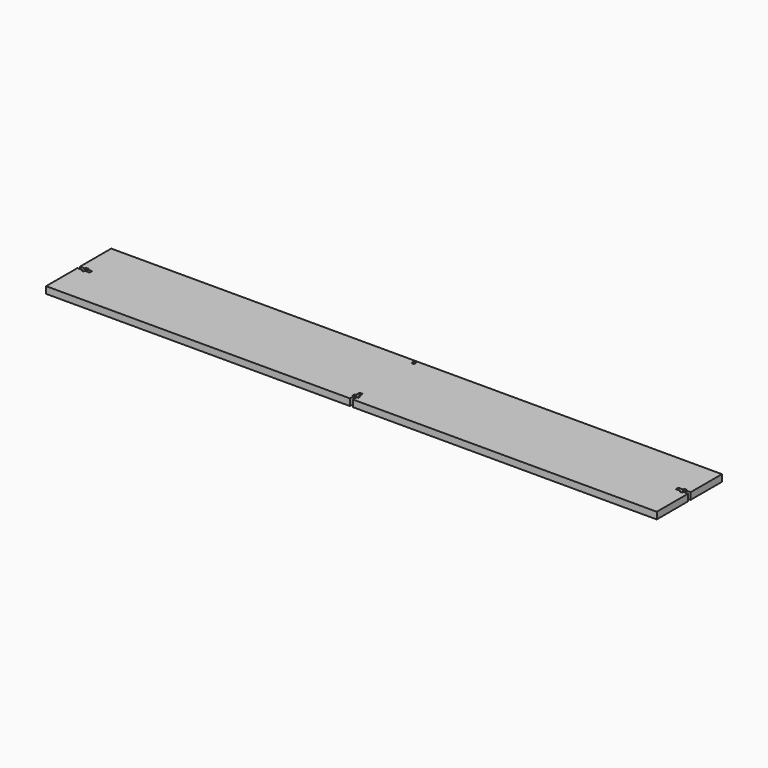
from build123d import *

# Parameters (mm, degrees)
F0_R     = 1.4605
F1_DEPTH = 6.35


with BuildPart() as f1:
    # F0 (on Top) → F1 (new body)
    with BuildSketch(Plane.XY):
        Polygon((1.4605, -38.1), (285.75, -38.1), (285.75, -1.4605), (281.305, -1.4605), (281.305, -2.7305), (278.765, -2.7305), (278.765, -1.4605), (274.32, -1.4605), (274.32, 0), (274.32, 1.4605), (278.765, 1.4605), (278.765, 2.7305), (281.305, 2.7305), (281.305, 1.4605), (285.75, 1.4605), (285.75, 38.1), (-285.75, 38.1), (-285.75, 1.4605), (-281.305, 1.4605), (-281.305, 2.7305), (-278.765, 2.7305), (-278.765, 1.4605), (-274.32, 1.4605), (-274.32, 0), (-274.32, -1.4605), (-278.765, -1.4605), (-278.765, -2.7305), (-281.305, -2.7305), (-281.305, -1.4605), (-285.75, -1.4605), (-285.75, -38.1), (-1.4605, -38.1), (-1.4605, -33.655), (-2.7305, -33.655), (-2.7305, -31.115), (-1.4605, -31.115), (-1.4605, -26.67), (0, -26.67), (1.4605, -26.67), (1.4605, -31.115), (2.7305, -31.115), (2.7305, -33.655), (1.4605, -33.655), align=None)
        with Locations((0, 34.925)):
            Circle(F0_R, mode=Mode.SUBTRACT)
    extrude(amount=F1_DEPTH)


solid = f1.part
